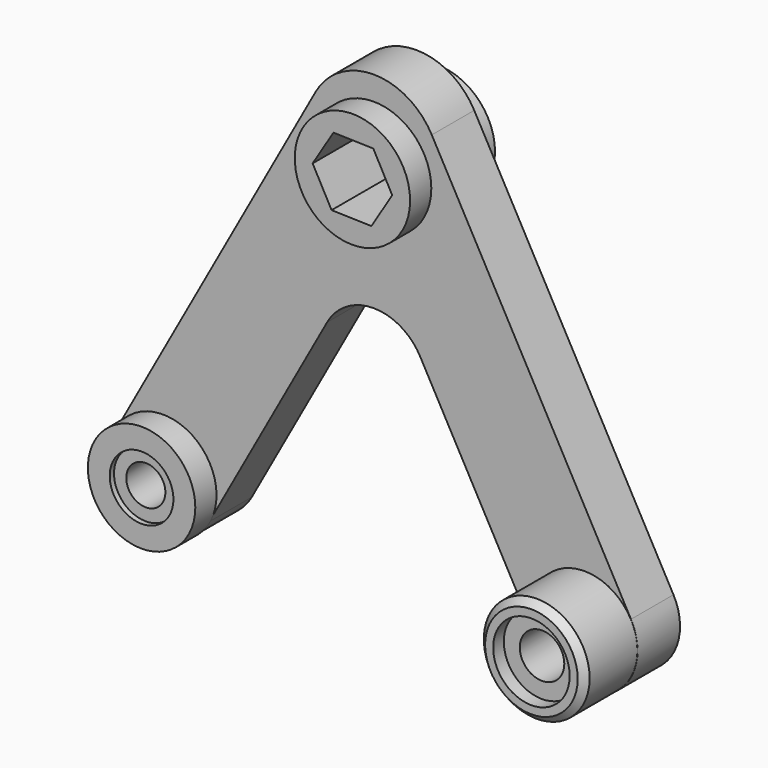
from build123d import *

# Parameters (mm, degrees)
F1_DEPTH      = 4
F2_R          = 4.345587
F3_DEPTH      = 2
F3_DEPTH_BACK = 6
F5_DEPTH      = 25
F6_R          = 4.04816
F7_DEPTH      = 2
F8_R          = 2.39956
F9_DEPTH      = 0.4
F10_R         = 1.472917
F11_DEPTH     = 25
F12_R         = 3.987391
F13_DEPTH     = 5
F14_R         = 2.881593
F15_DEPTH     = 1
F16_R         = 1.676449
F17_DEPTH     = 25
F18_SIZE      = 0.5


with BuildPart() as f1:
    # F0 (on Front) → F1 (new body)
    with BuildSketch(Plane.XZ):
        with BuildLine():
            Line((19.393065, -2.246393), (4.379365, 25.005329))
            ThreePointArc((4.379365, 25.005329), (0, 27.59262), (-4.379365, 25.005329))
            Line((-4.379365, 25.005329), (-19.393065, -2.246393))
            ThreePointArc((-19.393065, -2.246393), (-17.81974, -7.680052), (-12.386081, -6.106727))
            Line((-12.386081, -6.106727), (-3.503492, 10.01627))
            ThreePointArc((-3.503492, 10.01627), (0, 12.086103), (3.503492, 10.01627))
            Line((3.503492, 10.01627), (12.386081, -6.106727))
            ThreePointArc((12.386081, -6.106727), (17.81974, -7.680052), (19.393065, -2.246393))
        make_face()
    extrude(amount=F1_DEPTH)

    # F2 (on face) → F3 (join, two sides)
    with BuildSketch(Plane.XZ.offset(4)) as f3_sk:
        with Locations((0, 21.446018)):
            Circle(F2_R)
    extrude(amount=F3_DEPTH)
    extrude(f3_sk.sketch, amount=-F3_DEPTH_BACK)

    # F4 (on face) → F5 (cut)
    with BuildSketch(Plane.XZ.offset(6)):
        Polygon((-1.571178, 18.890357), (1.427678, 18.807508), (2.998856, 21.363168), (1.571178, 24.001678), (-1.427678, 24.084528), (-2.998856, 21.528867), align=None)
    extrude(amount=-F5_DEPTH, mode=Mode.SUBTRACT)

    # F6 (on face) → F7 (join)
    with BuildSketch(Plane.XZ.offset(4)):
        with Locations((-15.889573, -4.17656)):
            Circle(F6_R)
    extrude(amount=F7_DEPTH)

    # F8 (on face) → F9 (cut)
    with BuildSketch(Plane.XZ.offset(6)):
        with Locations((-15.889573, -4.17656)):
            Circle(F8_R)
    extrude(amount=-F9_DEPTH, mode=Mode.SUBTRACT)

    # F10 (on face) → F11 (cut)
    with BuildSketch(Plane.XZ.offset(5.6)):
        with Locations((-15.889573, -4.17656)):
            Circle(F10_R)
    extrude(amount=-F11_DEPTH, mode=Mode.SUBTRACT)

    # F12 (on face) → F13 (join)
    with BuildSketch(Plane.XZ.offset(4)):
        with Locations((15.889573, -4.17656)):
            Circle(F12_R)
    extrude(amount=F13_DEPTH)

    # F14 (on face) → F15 (cut)
    with BuildSketch(Plane.XZ.offset(9)):
        with Locations((15.889573, -4.17656)):
            Circle(F14_R)
    extrude(amount=-F15_DEPTH, mode=Mode.SUBTRACT)

    # F16 (on face) → F17 (cut)
    with BuildSketch(Plane.XZ.offset(8)):
        with Locations((15.889573, -4.17656)):
            Circle(F16_R)
    extrude(amount=-F17_DEPTH, mode=Mode.SUBTRACT)

    # F18
    f18_edges = [f1.edges().sort_by_distance(p)[0] for p in [
        (11.902182, -9, -4.17656),
    ]]
    chamfer(f18_edges, length=F18_SIZE)


solid = f1.part
